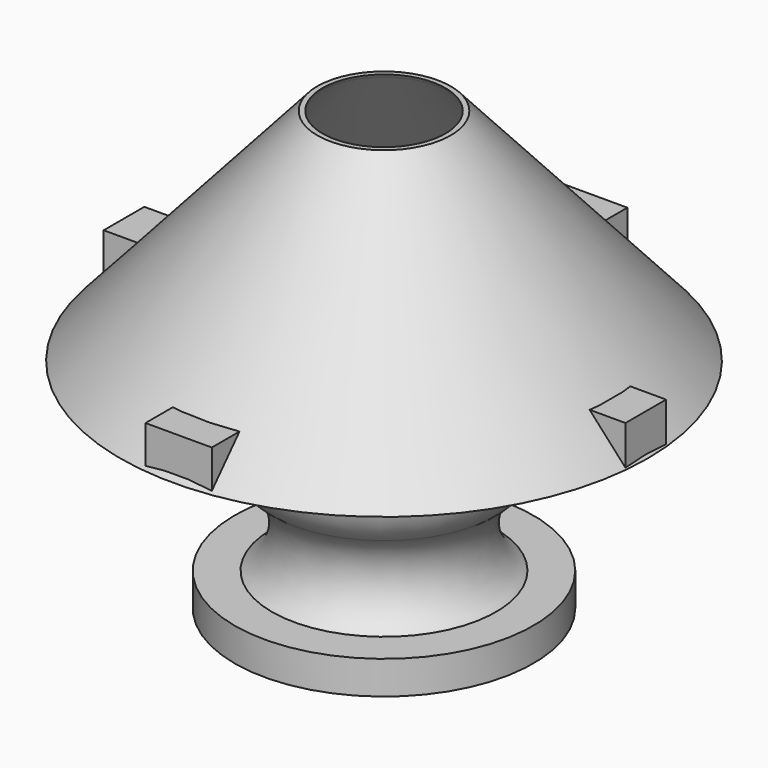
from build123d import *

# Parameters (mm, degrees)
F4_W     = 79.6898454428
F4_H     = 17.6611468196
F4_W_2   = 23.0663716793
F4_H_2   = 81.4383476973
F4_W_3   = 78.7337422371
F4_H_3   = 81.5760046244
F5_DEPTH = 14.1174849123


with BuildPart() as f1:
    # F0 (on Front) → F1 (revolve)
    with BuildSketch(Plane.XZ):
        with BuildLine():
            Line((0, 76.5726417303), (-23.1838840991, 76.5726417303))
            Line((-23.1838840991, 76.5726417303), (-91.7847827077, 0))
            Line((-91.7847827077, 0), (-38.9811061323, 0))
            ThreePointArc((-38.9811061323, 0), (-46.8098723998, -17.3696298152), (-38.9811061323, -34.7392596304))
            ThreePointArc((-38.9811061323, -34.7392596304), (-31.1821042714, -49.4679417461), (-38.9811061323, -64.1966238618))
            Line((-38.9811061323, -64.1966238618), (0, -64.1966238618))
            Line((0, -64.1966238618), (0, 76.5726417303))
        make_face()
        Polygon((0, -75.7519975305), (0, -64.1966238618), (-38.9811061323, -64.1966238618), (-51.9608668983, -64.1966238618), (-51.9608668983, -75.7519975305), align=None)
    revolve(axis=Axis((0, 0, 6.1880089343), (0, 0, 1)))

    # F2 (on Front) → F3 (revolve, cut)
    with BuildSketch(Plane.XZ):
        Polygon((-19.9390798807, 78.3993154764), (-22.5074328482, 75.1866549253), (-91.569326818, -2.086417051), (-43.4752702713, -2.086417051), (-39.5163074136, 0), (-39.5163074136, 8.4708146751), (-16.7889315635, 8.4708146751), (-16.7889315635, 27.3858550936), (0, 27.3858550936), (0, 79.4388726354), align=None)
    revolve(axis=Axis((0, 0, 53.4123638645), (0, 0, 1)), mode=Mode.SUBTRACT)


with BuildPart() as f5:
    # F4 (on Top) → F5 (new body)
    with BuildSketch(Plane.XY):
        with Locations((-50.662599504, 0.0893808901)):
            Rectangle(F4_W, F4_H)
        with Locations((0.715509057, 0.0893808901)):
            Rectangle(F4_W_2, F4_H)
        with Locations((0.715509057, -49.4603663683)):
            Rectangle(F4_W_2, F4_H_2)
        with Locations((51.6155660152, 0.0893808901)):
            Rectangle(F4_W_3, F4_H)
        with Locations((0.715509057, 49.7079566121)):
            Rectangle(F4_W_2, F4_H_3)
    extrude(amount=F5_DEPTH)


solid = Compound([f1.part, f5.part])
